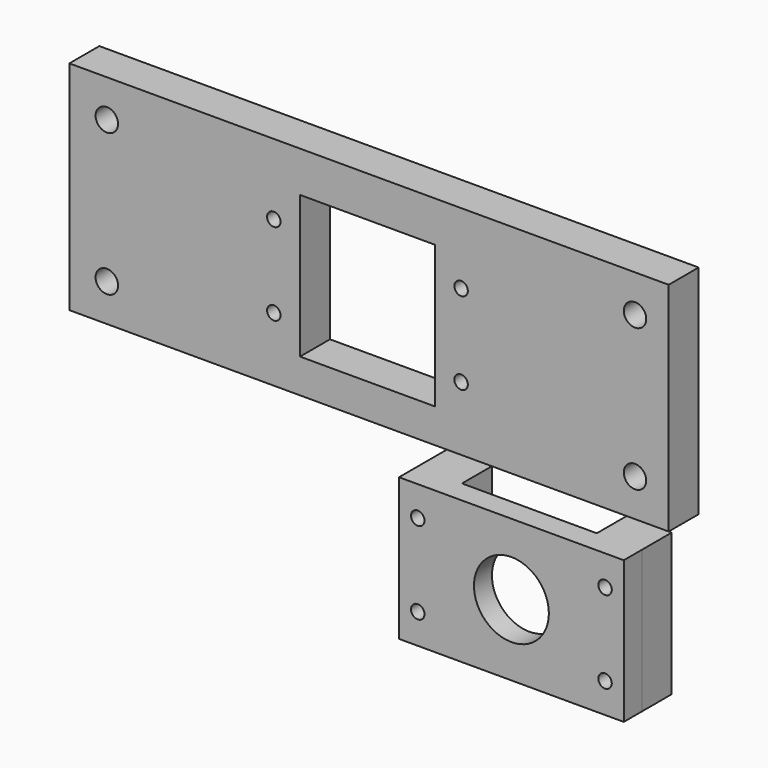
from build123d import *

# Parameters (mm, degrees)
F0_W     = 80
F0_H     = 29
F0_R     = 1.5
F0_R_2   = 0.9
F0_W_2   = 18
F0_H_2   = 19
F1_DEPTH = 5
F2_W     = 18
F2_H     = 19
F2_R     = 5
F2_W_2   = 6
F2_R_2   = 0.9
F3_DEPTH = 3
F4_DEPTH = 5


with BuildPart() as f1:
    # F0 (on Front) → F1 (new body)
    with BuildSketch(Plane.XZ):
        Rectangle(F0_W, F0_H)
        with Locations((-35, -9.5)):
            Circle(F0_R, mode=Mode.SUBTRACT)
        with Locations((-12.70968, -5.944636)):
            Circle(F0_R_2, mode=Mode.SUBTRACT)
        with Locations((-0.20968, -0.444636)):
            Rectangle(F0_W_2, F0_H_2, mode=Mode.SUBTRACT)
        with Locations((35.506628, -9.5)):
            Circle(F0_R, mode=Mode.SUBTRACT)
        with Locations((12.29032, -5.944636)):
            Circle(F0_R_2, mode=Mode.SUBTRACT)
        with Locations((-12.70968, 5.055364)):
            Circle(F0_R_2, mode=Mode.SUBTRACT)
        with Locations((-35, 9.5)):
            Circle(F0_R, mode=Mode.SUBTRACT)
        with Locations((12.29032, 5.055364)):
            Circle(F0_R_2, mode=Mode.SUBTRACT)
        with Locations((35.506628, 9.5)):
            Circle(F0_R, mode=Mode.SUBTRACT)
    extrude(amount=F1_DEPTH)


with BuildPart() as f3:
    # F2 (on Front) → F3 (new body)
    with BuildSketch(Plane.XZ):
        with Locations((17.406479, -30.654245)):
            Rectangle(F2_W, F2_H)
        with Locations((17.406479, -30.654245)):
            Circle(F2_R, mode=Mode.SUBTRACT)
        with Locations((5.406479, -30.654245)):
            Rectangle(F2_W_2, F2_H)
        with Locations((4.906479, -36.154245)):
            Circle(F2_R_2, mode=Mode.SUBTRACT)
        with Locations((4.906479, -25.154245)):
            Circle(F2_R_2, mode=Mode.SUBTRACT)
        with Locations((29.406479, -30.654245)):
            Rectangle(F2_W_2, F2_H)
        with Locations((29.906479, -36.154245)):
            Circle(F2_R_2, mode=Mode.SUBTRACT)
        with Locations((29.906479, -25.154245)):
            Circle(F2_R_2, mode=Mode.SUBTRACT)
    extrude(amount=F3_DEPTH)

    # F2 (on Front) → F4 (join)
    with BuildSketch(Plane.XZ):
        with Locations((5.406479, -30.654245)):
            Rectangle(F2_W_2, F2_H)
        with Locations((4.906479, -36.154245)):
            Circle(F2_R_2, mode=Mode.SUBTRACT)
        with Locations((4.906479, -25.154245)):
            Circle(F2_R_2, mode=Mode.SUBTRACT)
        with Locations((29.406479, -30.654245)):
            Rectangle(F2_W_2, F2_H)
        with Locations((29.906479, -36.154245)):
            Circle(F2_R_2, mode=Mode.SUBTRACT)
        with Locations((29.906479, -25.154245)):
            Circle(F2_R_2, mode=Mode.SUBTRACT)
    extrude(amount=-F4_DEPTH)


solid = Compound([f1.part, f3.part])
